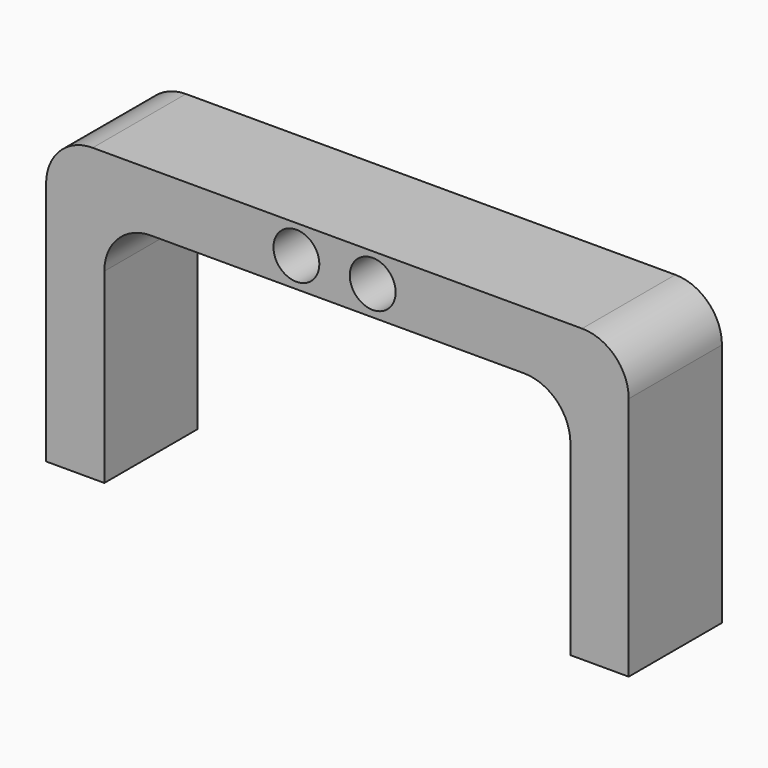
from build123d import *

# Parameters (mm, degrees)
F0_R     = 2.499995
F1_DEPTH = 12.7
F2_R     = 5.08


with BuildPart() as f1:
    # F0 (on Front) → F1 (new body)
    with BuildSketch(Plane.XZ):
        Polygon((45.833084, 27.884173), (-17.666916, 27.884173), (-17.666916, -3.865827), (-11.316916, -3.865827), (-11.316916, 21.534173), (39.483084, 21.534173), (39.483084, -3.865827), (45.833084, -3.865827), align=None)
        with Locations((9.614785, 24.749178)):
            Circle(F0_R, mode=Mode.SUBTRACT)
        with Locations((17.933089, 24.749178)):
            Circle(F0_R, mode=Mode.SUBTRACT)
    extrude(amount=F1_DEPTH)

    # F2
    f2_edges = [f1.edges().sort_by_distance(p)[0] for p in [
        (-17.666916, -6.35, 27.884173),
        (-11.316916, -6.35, 21.534173),
        (45.833084, -6.35, 27.884173),
        (39.483084, -6.35, 21.534173),
    ]]
    fillet(f2_edges, radius=F2_R)


solid = f1.part
